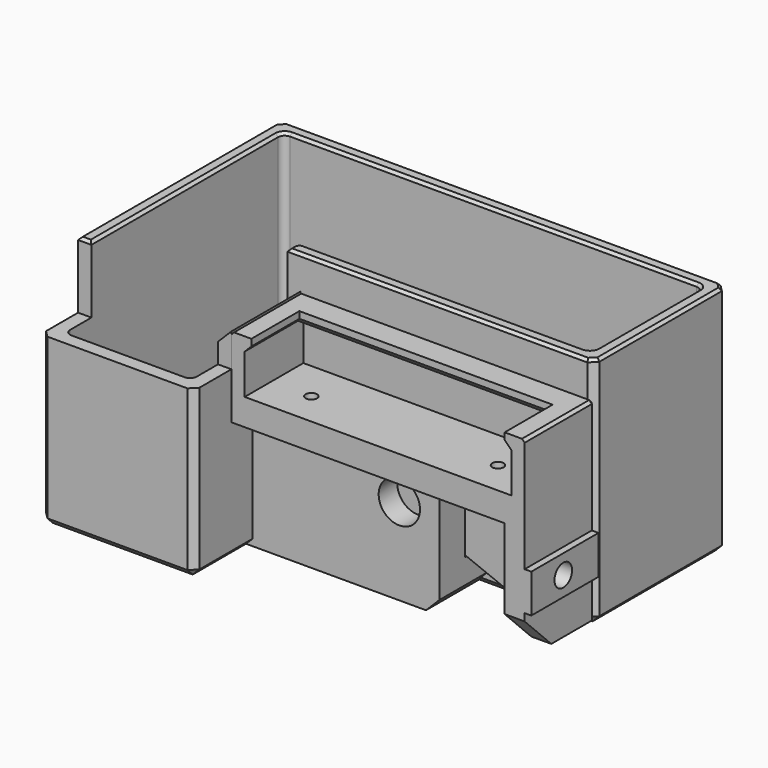
from build123d import *

# Parameters (mm, degrees)
CYLINDER008_R     = 0.85
CYLINDER008_DEPTH = 10
CYLINDER009_R     = 0.85
CYLINDER009_DEPTH = 10
CYLINDER007_R     = 3.1
CYLINDER007_DEPTH = 10
BOX027_W          = 48
BOX027_H          = 10
BOX027_DEPTH      = 19
BOX025_W          = 38
BOX025_H          = 11
BOX025_DEPTH      = 12
BOX026_W          = 40
BOX026_H          = 13
BOX026_DEPTH      = 6
BOX024_W          = 44
BOX024_H          = 15
BOX024_DEPTH      = 12
CHAMFER010_SIZE   = 0.99
CYLINDER004_R     = 1.65
CYLINDER004_DEPTH = 10
BOX029_W          = 2
BOX029_H          = 13
BOX029_DEPTH      = 5.8
BOX030_W          = 42
BOX030_H          = 4
BOX030_DEPTH      = 18
BOX028_W          = 3
BOX028_H          = 13
BOX028_DEPTH      = 18
CHAMFER011_SIZE2  = 16
CHAMFER011_SIZE   = 40
CHAMFER012_SIZE   = 5
CHAMFER013_SIZE   = 0.4
BOX037_W          = 29
BOX037_H          = 10
BOX037_DEPTH      = 10
BOX031_W          = 10
BOX031_H          = 14
BOX031_DEPTH      = 10
CHAMFER_SIZE      = 2
CYLINDER006_R     = 3.1
CYLINDER006_DEPTH = 10
BOX036_W          = 29
BOX036_H          = 5.5
BOX036_DEPTH      = 16.85
CHAMFER015_SIZE2  = 28
CHAMFER015_SIZE   = 11.15
CHAMFER018_SIZE   = 2
BOX035_W          = 29
BOX035_H          = 4.85
BOX035_DEPTH      = 17.85
CHAMFER016_SIZE   = 2
CHAMFER017_SIZE   = 2
BOX034_W          = 44
BOX034_H          = 21
BOX034_DEPTH      = 35
BOX033_W          = 19
BOX033_H          = 41
BOX033_DEPTH      = 35
FILLET_R          = 1
BOX032_W          = 44
BOX032_H          = 25
BOX032_DEPTH      = 35
BOX_W             = 23
BOX_H             = 45
BOX_DEPTH         = 35
CHAMFER014_SIZE   = 1
CHAMFER019_SIZE   = 0.4


with BuildPart() as cylinder008:
    # Cylinder008 → Cylinder008 (new body)
    with BuildSketch(Plane(origin=(-8, 7, 14), x_dir=(1, 0, 0), z_dir=(0, 0, 1))):
        Circle(CYLINDER008_R)
    extrude(amount=CYLINDER008_DEPTH)


with BuildPart() as fusion001008008003002:
    # Cylinder009 → Cylinder009 (new body)
    with BuildSketch(Plane(origin=(-36, 7, 14), x_dir=(1, 0, 0), z_dir=(0, 0, 1))):
        Circle(CYLINDER009_R)
    extrude(amount=CYLINDER009_DEPTH)

    # Fusion001008008003002: union Cylinder008
    add(cylinder008.part)


with BuildPart() as cylinder007:
    # Cylinder007 → Cylinder007 (new body)
    with BuildSketch(Plane(origin=(-22, 14, 13), x_dir=(1, 0, 0), z_dir=(0, -1, 0))):
        Circle(CYLINDER007_R)
    extrude(amount=CYLINDER007_DEPTH)


with BuildPart() as cube026:
    # Box027 → Box027 (new body)
    with BuildSketch(Plane(origin=(0, -8, 0), x_dir=(1, 0, 0), z_dir=(0, 0, 1))):
        with Locations((24, 5)):
            Rectangle(BOX027_W, BOX027_H)
    extrude(amount=BOX027_DEPTH)


with BuildPart() as cube024:
    # Box025 → Box025 (new body)
    with BuildSketch(Plane(origin=(3, 0, 4), x_dir=(1, 0, 0), z_dir=(0, 0, 1))):
        with Locations((19, 5.5)):
            Rectangle(BOX025_W, BOX025_H)
    extrude(amount=BOX025_DEPTH)


with BuildPart() as cube025:
    # Box026 → Box026 (new body)
    with BuildSketch(Plane(origin=(2, 0, 4), x_dir=(1, 0, 0), z_dir=(0, 0, 1))):
        with Locations((20, 6.5)):
            Rectangle(BOX026_W, BOX026_H)
    extrude(amount=BOX026_DEPTH)


with BuildPart() as cut010:
    # Box024 → Box024 (new body)
    with BuildSketch(Plane.XY):
        with Locations((22, 7.5)):
            Rectangle(BOX024_W, BOX024_H)
    extrude(amount=BOX024_DEPTH)

    # Cut008: cut Cube025
    add(cube025.part, mode=Mode.SUBTRACT)

    # Cut009: cut Cube024
    add(cube024.part, mode=Mode.SUBTRACT)

    # Chamfer010
    chamfer010_edges = [cut010.edges().sort_by_distance(p)[0] for p in [
        (41, 5.5, 10),
        (22, 11, 10),
        (3, 5.5, 10),
    ]]
    chamfer(chamfer010_edges, length=CHAMFER010_SIZE)

    # Cut010: cut Cube026
    add(cube026.part, mode=Mode.SUBTRACT)


with BuildPart() as cut010_1:
    # Cut010 placement: moved
    add(cut010.part.moved(Location((-44, 0, 18))))


with BuildPart() as cylinder004:
    # Cylinder004 → Cylinder004 (new body)
    with BuildSketch(Plane(origin=(-5, 8, 10), x_dir=(0, 0, -1), z_dir=(1, 0, 0))):
        Circle(CYLINDER004_R)
    extrude(amount=CYLINDER004_DEPTH)


with BuildPart() as cube028:
    # Box029 → Box029 (new body)
    with BuildSketch(Plane(origin=(-1, 2, 7.1), x_dir=(1, 0, 0), z_dir=(0, 0, 1))):
        with Locations((1, 6.5)):
            Rectangle(BOX029_W, BOX029_H)
    extrude(amount=BOX029_DEPTH)


with BuildPart() as cube029:
    # Box030 → Box030 (new body)
    with BuildSketch(Plane(origin=(-44, 11, 1), x_dir=(1, 0, 0), z_dir=(0, 0, 1))):
        with Locations((21, 2)):
            Rectangle(BOX030_W, BOX030_H)
    extrude(amount=BOX030_DEPTH)


with BuildPart() as cut013:
    # Box028 → Box028 (new body)
    with BuildSketch(Plane(origin=(-3, 2, 1), x_dir=(1, 0, 0), z_dir=(0, 0, 1))):
        with Locations((1.5, 6.5)):
            Rectangle(BOX028_W, BOX028_H)
    extrude(amount=BOX028_DEPTH)

    # Fusion001008008002: union Cube028, Cube029
    add(cube028.part)
    add(cube029.part)

    # Cut011: cut Cylinder004
    add(cylinder004.part, mode=Mode.SUBTRACT)

    # Chamfer011
    chamfer011_edges = [cut013.edges().sort_by_distance(p)[0] for p in [
        (-44, 13, 1),
    ]]
    chamfer011_side = cut013.faces().sort_by_distance((-23.5, 13, 1))[0]
    chamfer(chamfer011_edges, length=CHAMFER011_SIZE, length2=CHAMFER011_SIZE2, reference=chamfer011_side)

    # Chamfer012
    chamfer012_edges = [cut013.edges().sort_by_distance(p)[0] for p in [
        (-1.5, 2, 1),
    ]]
    chamfer(chamfer012_edges, length=CHAMFER012_SIZE)

    # Fusion001008008003: union Cut010
    add(cut010_1.part)

    # Chamfer013
    chamfer013_edges = [cut013.edges().sort_by_distance(p)[0] for p in [
        (0, 15, 4.05),
        (-24, 15, 9),
        (1, 15, 10),
        (0.5, 15, 7.1),
        (0.5, 15, 12.9),
        (0, 8.5, 30),
        (-44, 8.5, 30),
        (-22, 15, 30),
        (-2, 15, 1),
        (0, 15, 21.45),
        (-44, 15, 23.5),
    ]]
    chamfer(chamfer013_edges, length=CHAMFER013_SIZE)

    # Cut012: cut Cylinder007
    add(cylinder007.part, mode=Mode.SUBTRACT)

    # Cut013: cut Fusion001008008003002
    add(fusion001008008003002.part, mode=Mode.SUBTRACT)


with BuildPart() as cube036:
    # Box037 → Box037 (new body)
    with BuildSketch(Plane(origin=(-69, -8, 25), x_dir=(1, 0, 0), z_dir=(0, 0, 1))):
        with Locations((14.5, 5)):
            Rectangle(BOX037_W, BOX037_H)
    extrude(amount=BOX037_DEPTH)


with BuildPart() as chamfer_body:
    # Box031 → Box031 (new body)
    with BuildSketch(Plane(origin=(-51, 1, 30), x_dir=(1, 0, 0), z_dir=(0, 0, 1))):
        with Locations((5, 7)):
            Rectangle(BOX031_W, BOX031_H)
    extrude(amount=BOX031_DEPTH)

    # Chamfer
    chamfer_edges = [chamfer_body.edges().sort_by_distance(p)[0] for p in [
        (-41, 8, 30),
    ]]
    chamfer(chamfer_edges, length=CHAMFER_SIZE)


with BuildPart() as chamfer_body_1:
    # Chamfer placement: moved
    add(chamfer_body.part.moved(Location((-3, 0, -2))))


with BuildPart() as cylinder006:
    # Cylinder006 → Cylinder006 (new body)
    with BuildSketch(Plane(origin=(-22, 9.5, 13), x_dir=(1, 0, 0), z_dir=(0, -1, 0))):
        Circle(CYLINDER006_R)
    extrude(amount=CYLINDER006_DEPTH)


with BuildPart() as chamfer018:
    # Box036 → Box036 (new body)
    with BuildSketch(Plane(origin=(-45, 10.85, 0), x_dir=(1, 0, 0), z_dir=(0, 0, 1))):
        with Locations((14.5, 2.75)):
            Rectangle(BOX036_W, BOX036_H)
    extrude(amount=BOX036_DEPTH)

    # Chamfer015
    chamfer015_edges = [chamfer018.edges().sort_by_distance(p)[0] for p in [
        (-16, 13.6, 16.85),
    ]]
    chamfer015_side = chamfer018.faces().sort_by_distance((-16, 13.6, 8.425))[0]
    chamfer(chamfer015_edges, length=CHAMFER015_SIZE, length2=CHAMFER015_SIZE2, reference=chamfer015_side)

    # Chamfer018
    chamfer018_edges = [chamfer018.edges().sort_by_distance(p)[0] for p in [
        (-16, 13.6, 0),
    ]]
    chamfer(chamfer018_edges, length=CHAMFER018_SIZE)


with BuildPart() as cut014:
    # Box035 → Box035 (new body)
    with BuildSketch(Plane(origin=(-45, 6, 0), x_dir=(1, 0, 0), z_dir=(0, 0, 1))):
        with Locations((14.5, 2.425)):
            Rectangle(BOX035_W, BOX035_H)
    extrude(amount=BOX035_DEPTH)

    # Chamfer016
    chamfer016_edges = [cut014.edges().sort_by_distance(p)[0] for p in [
        (-16, 8.425, 17.85),
    ]]
    chamfer(chamfer016_edges, length=CHAMFER016_SIZE)

    # Chamfer017
    chamfer017_edges = [cut014.edges().sort_by_distance(p)[0] for p in [
        (-16, 8.425, 0),
    ]]
    chamfer(chamfer017_edges, length=CHAMFER017_SIZE)

    # Fusion001008008003003002: union Chamfer018
    add(chamfer018.part)

    # Cut014: cut Cylinder006
    add(cylinder006.part, mode=Mode.SUBTRACT)


with BuildPart() as cube033:
    # Box034 → Box034 (new body)
    with BuildSketch(Plane(origin=(-46, 17, 2), x_dir=(1, 0, 0), z_dir=(0, 0, 1))):
        with Locations((22, 10.5)):
            Rectangle(BOX034_W, BOX034_H)
    extrude(amount=BOX034_DEPTH)


with BuildPart() as fillet_body:
    # Box033 → Box033 (new body)
    with BuildSketch(Plane(origin=(-65, -3, 2), x_dir=(1, 0, 0), z_dir=(0, 0, 1))):
        with Locations((9.5, 20.5)):
            Rectangle(BOX033_W, BOX033_H)
    extrude(amount=BOX033_DEPTH)

    # Fusion: union Cube033
    add(cube033.part)

    # Fillet
    fillet_edges = [fillet_body.edges().sort_by_distance(p)[0] for p in [
        (-65, -3, 19.5),
        (-65, 38, 19.5),
        (-65, 17.5, 2),
        (-55.5, -3, 2),
        (-46, -3, 19.5),
        (-46, 17, 19.5),
        (-46, 7, 2),
        (-24, 17, 2),
        (-2, 17, 19.5),
        (-2, 38, 19.5),
        (-2, 27.5, 2),
        (-33.5, 38, 2),
    ]]
    fillet(fillet_edges, radius=FILLET_R)


with BuildPart() as cube031:
    # Box032 → Box032 (new body)
    with BuildSketch(Plane(origin=(-44, 15, 0), x_dir=(1, 0, 0), z_dir=(0, 0, 1))):
        with Locations((22, 12.5)):
            Rectangle(BOX032_W, BOX032_H)
    extrude(amount=BOX032_DEPTH)


with BuildPart() as chamfer019:
    # Box → Box (new body)
    with BuildSketch(Plane(origin=(-67, -5, 0), x_dir=(1, 0, 0), z_dir=(0, 0, 1))):
        with Locations((11.5, 22.5)):
            Rectangle(BOX_W, BOX_H)
    extrude(amount=BOX_DEPTH)

    # Fusion001008008003003: union Cube031
    add(cube031.part)

    # Chamfer014
    chamfer014_edges = [chamfer019.edges().sort_by_distance(p)[0] for p in [
        (-67, -5, 17.5),
        (-67, 40, 17.5),
        (-67, 17.5, 0),
        (-55.5, -5, 0),
        (-44, -5, 17.5),
        (-44, 5, 0),
        (-22, 15, 0),
        (0, 15, 17.5),
        (0, 40, 17.5),
        (0, 27.5, 0),
        (-33.5, 40, 0),
    ]]
    chamfer(chamfer014_edges, length=CHAMFER014_SIZE)

    # Cut: cut Fillet body
    add(fillet_body.part, mode=Mode.SUBTRACT)

    # Fusion001008008003003003: union Cut014
    add(cut014.part)

    # Cut015: cut Chamfer body
    add(chamfer_body_1.part, mode=Mode.SUBTRACT)

    # Cut016: cut Cube036
    add(cube036.part, mode=Mode.SUBTRACT)

    # Chamfer019
    chamfer019_edges = [chamfer019.edges().sort_by_distance(p)[0] for p in [
        (-67, 20.5, 35),
        (-66.5, 39.5, 35),
        (-33.5, 40, 35),
        (-0.5, 39.5, 35),
        (0, 27.5, 35),
        (-0.5, 15.5, 35),
        (-22.5, 15, 35),
        (-45, 15, 35),
        (-46, 15.5, 35),
        (-45.707107, 16.707107, 35),
        (-24, 17, 35),
        (-2.292893, 17.292893, 35),
        (-2, 27.5, 35),
        (-2.292893, 37.707107, 35),
        (-33.5, 38, 35),
        (-64.707107, 37.707107, 35),
        (-65, 19.5, 35),
        (-66, 2, 35),
    ]]
    chamfer(chamfer019_edges, length=CHAMFER019_SIZE)


solid = Compound([cut013.part, chamfer019.part])
